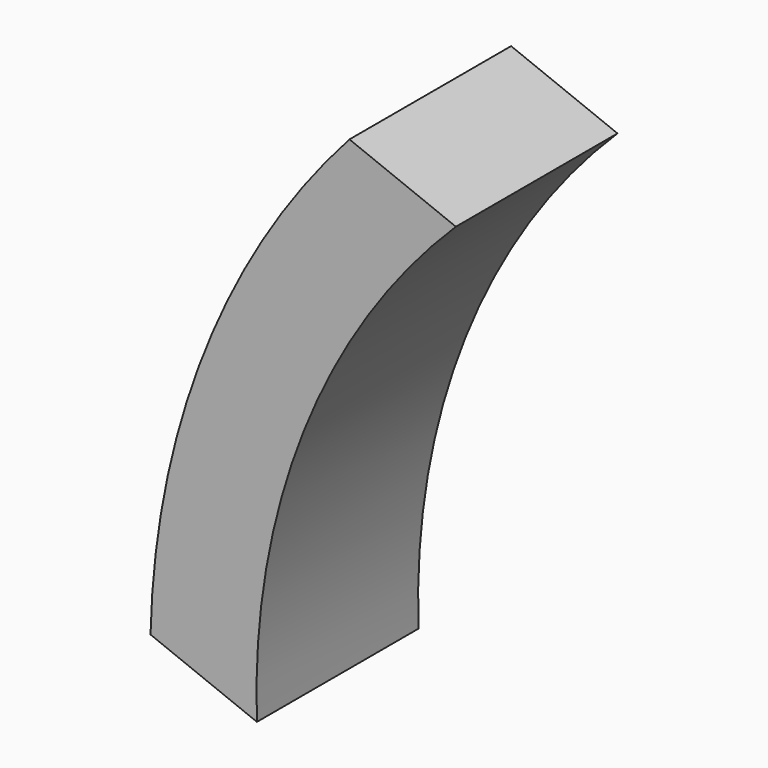
from build123d import *

# Parameters (mm, degrees)
F1_DEPTH = 15


with BuildPart() as f1:
    # F0 (on Front) → F1 (new body, symmetric)
    with BuildSketch(Plane.XZ):
        with BuildLine():
            Line((-49.822702, -22.316488), (-20.280184, 52.028919))
            ThreePointArc((-20.280184, 52.028919), (-41.7246, 17.507918), (-49.822702, -22.316488))
        make_face()
        with BuildLine():
            Line((-4.481785, 45.751134), (-20.280184, 52.028919))
            Line((-20.280184, 52.028919), (-49.822702, -22.316488))
            Line((-49.822702, -22.316488), (-34.024303, -28.594273))
            ThreePointArc((-34.024303, -28.594273), (-27.076525, 11.687235), (-4.481785, 45.751134))
        make_face()
    extrude(amount=F1_DEPTH, both=True)


solid = f1.part
